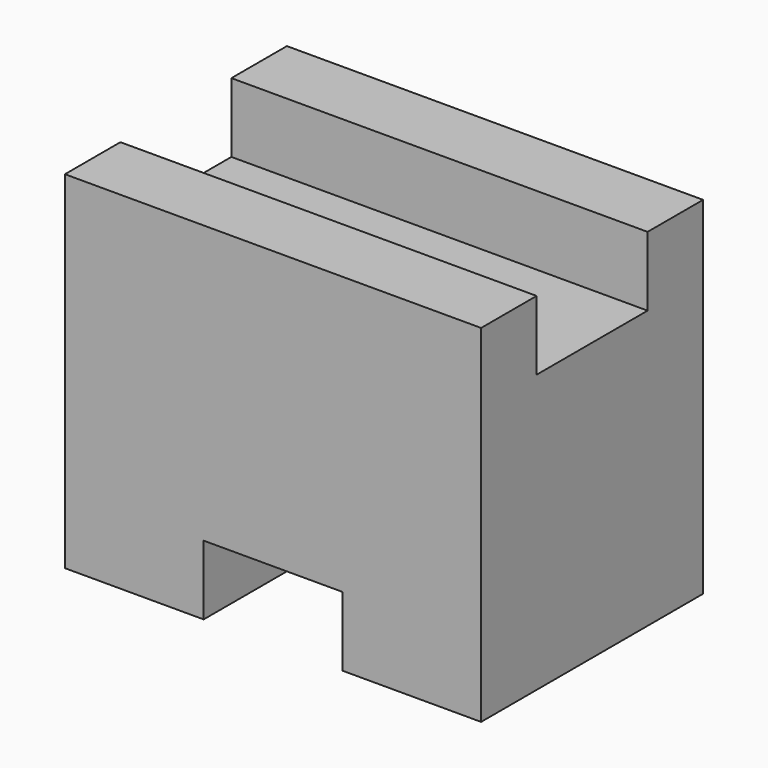
from build123d import *

# Parameters (mm, degrees)
F0_W     = 25.4
F0_H     = 31.75
F1_DEPTH = 38.1
F2_W     = 12.7
F2_H     = 6.35
F3_DEPTH = 38.1
F4_W     = 12.7
F4_H     = 6.35
F5_DEPTH = 25.4


with BuildPart() as f1:
    # F0 (on Right) → F1 (new body)
    with BuildSketch(Plane.YZ):
        with Locations((12.7, 15.875)):
            Rectangle(F0_W, F0_H)
    extrude(amount=-F1_DEPTH)

    # F2 (on face) → F3 (cut)
    with BuildSketch(Plane.YZ):
        with Locations((12.7, 28.575)):
            Rectangle(F2_W, F2_H)
    extrude(amount=-F3_DEPTH, mode=Mode.SUBTRACT)

    # F4 (on face) → F5 (cut)
    with BuildSketch(Plane.XZ):
        with Locations((-19.05, 3.175)):
            Rectangle(F4_W, F4_H)
    extrude(amount=-F5_DEPTH, mode=Mode.SUBTRACT)


solid = f1.part
